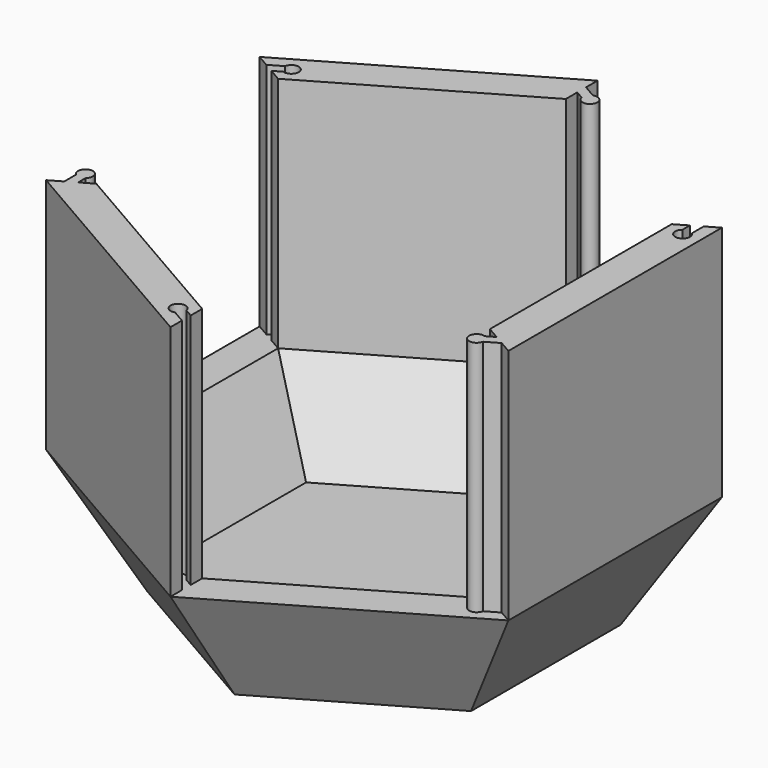
from build123d import *

# Parameters (mm, degrees)
F5_T     = -5
F7_DEPTH = 40


with BuildPart() as f4:
    # F0 (on Top) → F4 section 0
    with BuildSketch(Plane.XY):
        Polygon((27.2798002192, 15.75), (0, 31.5), (-27.2798002192, 15.75), (-27.2798002192, -15.75), (0, -31.5), (27.2798002192, -15.75), align=None)
    # F2 (on offset) → F4 section 1
    with BuildSketch(Plane.XY.offset(20)):
        Polygon((-38.9711431703, -22.5), (0, -45), (38.9711431703, -22.5), (38.9711431703, 22.5), (0, 45), (-38.9711431703, 22.5), align=None)
    loft()

    # F5
    f5_openings = [f4.faces().sort_by_distance(p)[0] for p in [
        (0, 0, 20),
    ]]
    offset(amount=F5_T, openings=f5_openings)

    # F6 (on face) → F7 (join)
    with BuildSketch(Plane.XY.offset(20)):
        with BuildLine():
            Line((0, -38.3124026487), (-33.1795139738, -19.1562013243))
            Line((-33.1795139738, -19.1562013243), (-35.275328572, -20.3662204468))
            Line((-35.275328572, -20.3662204468), (-35.275328572, -18.7885692978))
            ThreePointArc((-35.275328572, -18.7885692978), (-36.075328572, -16.5781006622), (-36.875328572, -18.7885692978))
            Line((-36.875328572, -18.7885692978), (-36.875328572, -21.2899808775))
            Line((-36.875328572, -21.2899808775), (-38.9711431703, -22.5))
            Line((-38.9711431703, -22.5), (0, -45))
            Line((0, -45), (0, -42.579961755))
            Line((0, -42.579961755), (-2.1662859734, -41.3292559652))
            ThreePointArc((-2.1662859734, -41.3292559652), (-3.6806079661, -39.5312013243), (-1.3662859734, -39.9436153191))
            Line((-1.3662859734, -39.9436153191), (0, -40.7324408936))
            Line((0, -40.7324408936), (0, -38.3124026487))
        make_face()
        with BuildLine():
            Line((-35.275328572, 20.3662204468), (-33.1795139738, 19.1562013243))
            Line((-33.1795139738, 19.1562013243), (0, 38.3124026487))
            Line((0, 38.3124026487), (0, 40.7324408936))
            Line((0, 40.7324408936), (1.3662859734, 39.9436153191))
            ThreePointArc((1.3662859734, 39.9436153191), (3.6806079661, 39.5312013243), (2.1662859734, 41.3292559652))
            Line((2.1662859734, 41.3292559652), (0, 42.579961755))
            Line((0, 42.579961755), (0, 45))
            Line((0, 45), (-38.9711431703, 22.5))
            Line((-38.9711431703, 22.5), (-36.875328572, 21.2899808775))
            Line((-36.875328572, 21.2899808775), (-34.7090425987, 22.5406866674))
            ThreePointArc((-34.7090425987, 22.5406866674), (-32.394720606, 22.9531006622), (-33.9090425987, 21.1550460213))
            Line((-33.9090425987, 21.1550460213), (-35.275328572, 20.3662204468))
        make_face()
        with BuildLine():
            Line((33.1795139738, 19.1562013243), (33.1795139738, -19.1562013243))
            Line((33.1795139738, -19.1562013243), (35.275328572, -20.3662204468))
            Line((35.275328572, -20.3662204468), (33.9090425987, -21.1550460213))
            ThreePointArc((33.9090425987, -21.1550460213), (32.394720606, -22.9531006622), (34.7090425987, -22.5406866674))
            Line((34.7090425987, -22.5406866674), (36.875328572, -21.2899808775))
            Line((36.875328572, -21.2899808775), (38.9711431703, -22.5))
            Line((38.9711431703, -22.5), (38.9711431703, 22.5))
            Line((38.9711431703, 22.5), (36.875328572, 21.2899808775))
            Line((36.875328572, 21.2899808775), (36.875328572, 18.7885692978))
            ThreePointArc((36.875328572, 18.7885692978), (36.075328572, 16.5781006622), (35.275328572, 18.7885692978))
            Line((35.275328572, 18.7885692978), (35.275328572, 20.3662204468))
            Line((35.275328572, 20.3662204468), (33.1795139738, 19.1562013243))
        make_face()
    extrude(amount=F7_DEPTH)


solid = f4.part
